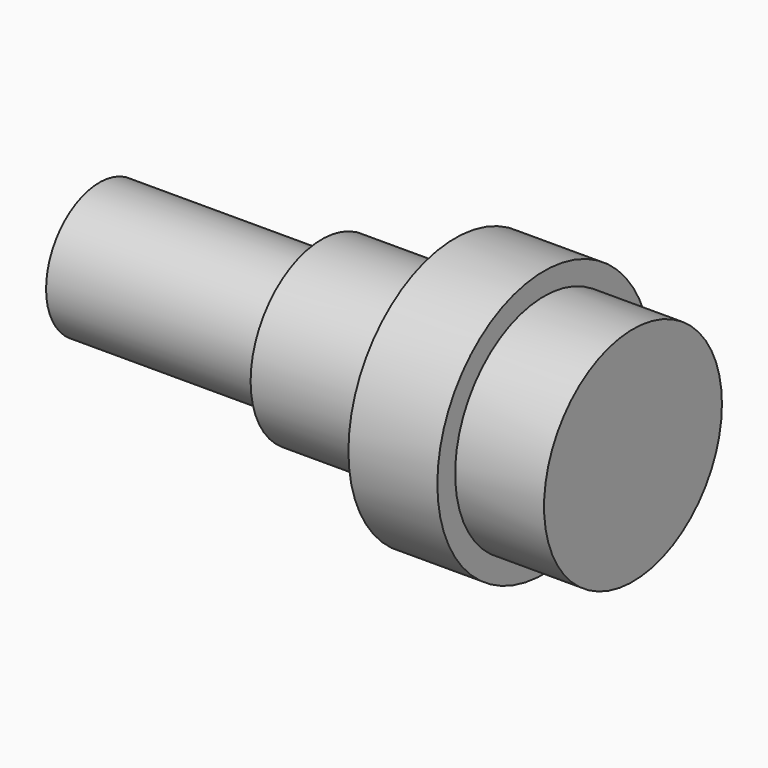
from build123d import *

# Parameters (mm, degrees)
F0_R     = 12.5
F1_DEPTH = 10
F2_R     = 15
F3_DEPTH = 10
F4_R     = 10
F5_DEPTH = 15
F6_R     = 7.5
F7_DEPTH = 25


with BuildPart() as f1:
    # F0 (on Right) → F1 (new body)
    with BuildSketch(Plane.YZ):
        Circle(F0_R)
    extrude(amount=F1_DEPTH)

    # F2 (on face) → F3 (join)
    with BuildSketch(Plane(origin=(0, 0, 0), x_dir=(0, -1, 0), z_dir=(-1, 0, 0))):
        Circle(F2_R)
    extrude(amount=F3_DEPTH)

    # F4 (on face) → F5 (join)
    with BuildSketch(Plane(origin=(-10, 0, 0), x_dir=(0, -1, 0), z_dir=(-1, 0, 0))):
        Circle(F4_R)
    extrude(amount=F5_DEPTH)

    # F6 (on face) → F7 (join)
    with BuildSketch(Plane(origin=(-25, 0, 0), x_dir=(0, -1, 0), z_dir=(-1, 0, 0))):
        Circle(F6_R)
    extrude(amount=F7_DEPTH)


solid = f1.part
